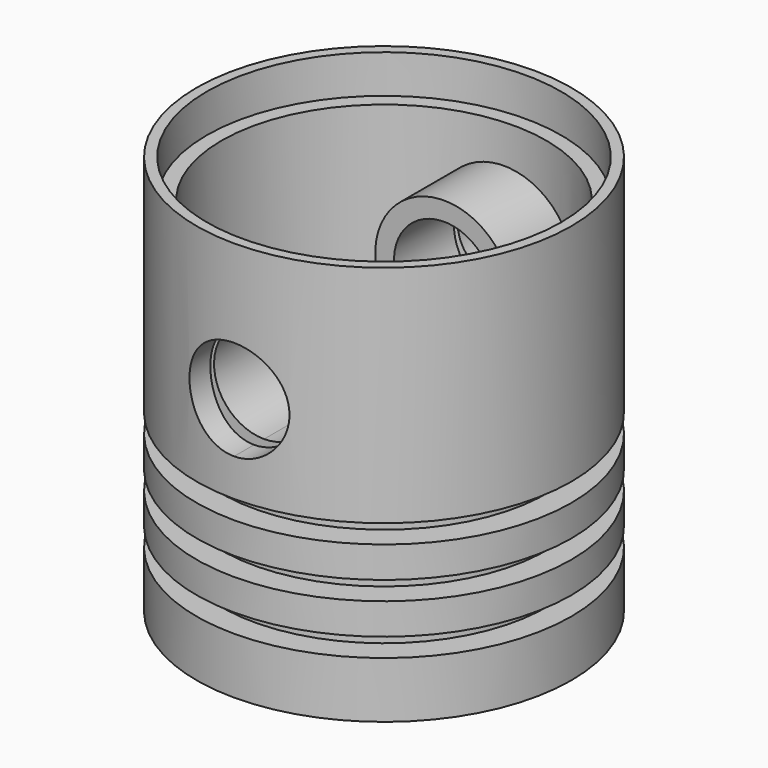
from build123d import *

# Parameters (mm, degrees)
F3_DEPTH = 20
F4_DEPTH = 12
F5_DEPTH = 6


with BuildPart() as f1:
    # F0 (on Front) → F1 (revolve)
    with BuildSketch(Plane.XZ):
        Polygon((-15, 0), (0, 0), (0, 4.923398), (-11.885097, 4.923398), (-11.885097, 14.5), (-13, 14.5), (-13, 28.923398), (-14.17708, 28.923398), (-14.17708, 32), (-15, 32), (-15, 14), (-13, 14), (-13, 12.5), (-15, 12.5), (-15, 10), (-13, 10), (-13, 8.5), (-15, 8.5), (-15, 6), (-13, 6), (-13, 4.5), (-15, 4.5), align=None)
    revolve(axis=Axis((0, 0, 2.461699), (0, 0, 1)))

    # F2 (on Front) → F3 (cut, symmetric)
    with BuildSketch(Plane.XZ):
        with BuildLine():
            ThreePointArc((4, 21), (-2.828427, 23.828427), (0, 17))
            ThreePointArc((0, 17), (2.828427, 18.171573), (4, 21))
        make_face()
    extrude(amount=F3_DEPTH, both=True, mode=Mode.SUBTRACT)

    # F2 (on Front) → F4 (join, symmetric)
    with BuildSketch(Plane.XZ):
        with BuildLine():
            ThreePointArc((5.5, 21), (-3.889087, 24.889087), (0, 15.5))
            ThreePointArc((0, 15.5), (3.889087, 17.110913), (5.5, 21))
        make_face()
        with BuildLine():
            ThreePointArc((4, 21), (2.828427, 18.171573), (0, 17))
            ThreePointArc((0, 17), (-2.828427, 23.828427), (4, 21))
        make_face(mode=Mode.SUBTRACT)
    extrude(amount=F4_DEPTH, both=True)

    # F2 (on Front) → F5 (cut, symmetric)
    with BuildSketch(Plane.XZ):
        with BuildLine():
            ThreePointArc((4, 21), (-2.828427, 23.828427), (0, 17))
            ThreePointArc((0, 17), (2.828427, 18.171573), (4, 21))
        make_face()
        with BuildLine():
            ThreePointArc((5.5, 21), (-3.889087, 24.889087), (0, 15.5))
            ThreePointArc((0, 15.5), (3.889087, 17.110913), (5.5, 21))
        make_face()
        with BuildLine():
            ThreePointArc((4, 21), (2.828427, 18.171573), (0, 17))
            ThreePointArc((0, 17), (-2.828427, 23.828427), (4, 21))
        make_face(mode=Mode.SUBTRACT)
    extrude(amount=F5_DEPTH, both=True, mode=Mode.SUBTRACT)


solid = f1.part
